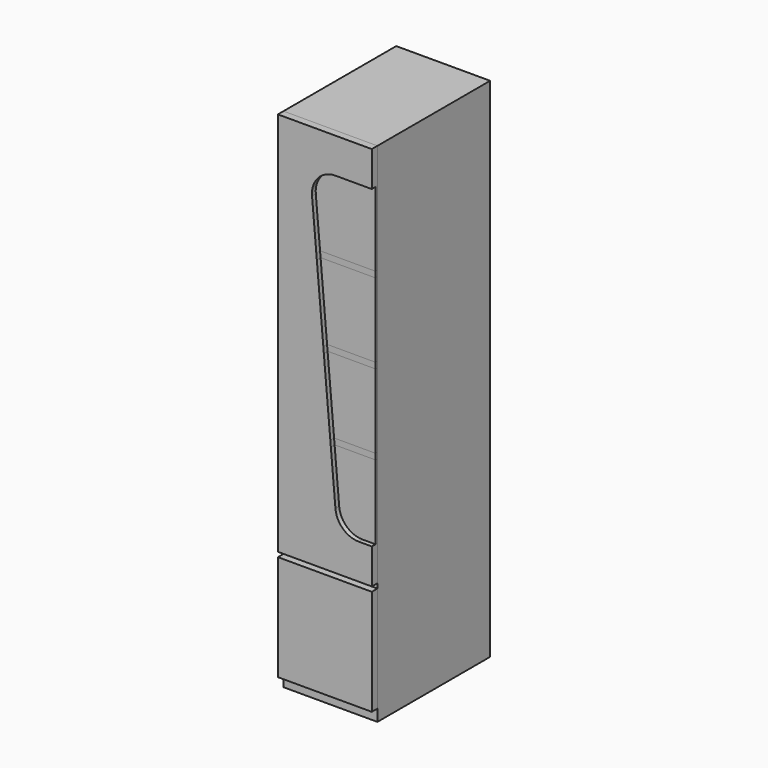
from build123d import *

# Parameters (mm, degrees)
F1_W     = 400
F1_H     = 600
F2_DEPTH = 2160
F3_W     = 400
F3_H     = 450
F4_DEPTH = 30
F5_DEPTH = 10
F6_DEPTH = 10


with BuildPart() as f2:
    # F1 (on Top) → F2 (new body)
    with BuildSketch(Plane.XY):
        with Locations((200, 300)):
            Rectangle(F1_W, F1_H)
    extrude(amount=F2_DEPTH)


with BuildPart() as f4:
    # F3 (on face) → F4 (new body)
    with BuildSketch(Plane.XZ):
        with Locations((200, 275)):
            Rectangle(F3_W, F3_H)
    extrude(amount=F4_DEPTH)


with BuildPart() as f4b:
    # F3 (on face) → F4, piece 2 (new body)
    with BuildSketch(Plane.XZ):
        with BuildLine():
            Line((0, 2160), (0, 520))
            Line((0, 520), (400, 520))
            Line((400, 520), (400, 670))
            Line((400, 670), (344.8679265265, 670))
            ThreePointArc((344.8679265265, 670), (277.3089057649, 696.272266319), (245.2484567173, 761.2844257252))
            Line((245.2484567173, 761.2844257252), (225.5665192847, 986.25))
            Line((225.5665192847, 986.25), (223.3793026965, 1011.25))
            Line((223.3793026965, 1011.25), (195.7110128564, 1327.5))
            Line((195.7110128564, 1327.5), (193.5237962683, 1352.5))
            Line((193.5237962683, 1352.5), (165.8555064282, 1668.75))
            Line((165.8555064282, 1668.75), (163.6682898401, 1693.75))
            Line((163.6682898401, 1693.75), (145.5113802978, 1901.2844257252))
            ThreePointArc((145.5113802978, 1901.2844257252), (171.4031164259, 1977.5590207616), (245.1308501069, 2010))
            Line((245.1308501069, 2010), (400, 2010))
            Line((400, 2010), (400, 2160))
            Line((400, 2160), (0, 2160))
        make_face()
    extrude(amount=F4_DEPTH)


with BuildPart() as f5:
    # F3 (on face) → F5 (new body)
    with BuildSketch(Plane.XZ):
        with BuildLine():
            Line((400, 1693.75), (400, 2010))
            Line((400, 2010), (245.1308501069, 2010))
            ThreePointArc((245.1308501069, 2010), (171.4031164259, 1977.5590207616), (145.5113802978, 1901.2844257252))
            Line((145.5113802978, 1901.2844257252), (163.6682898401, 1693.75))
            Line((163.6682898401, 1693.75), (400, 1693.75))
        make_face()
    extrude(amount=F5_DEPTH)


with BuildPart() as f5b:
    # F3 (on face) → F5, piece 2 (new body)
    with BuildSketch(Plane.XZ):
        Polygon((400, 1352.5), (400, 1668.75), (165.8555064282, 1668.75), (193.5237962683, 1352.5), align=None)
    extrude(amount=F5_DEPTH)


with BuildPart() as f5c:
    # F3 (on face) → F5, piece 3 (new body)
    with BuildSketch(Plane.XZ):
        Polygon((223.3793026965, 1011.25), (400, 1011.25), (400, 1327.5), (195.7110128564, 1327.5), align=None)
    extrude(amount=F5_DEPTH)


with BuildPart() as f5d:
    # F3 (on face) → F5, piece 4 (new body)
    with BuildSketch(Plane.XZ):
        with BuildLine():
            Line((344.8679265265, 670), (400, 670))
            Line((400, 670), (400, 986.25))
            Line((400, 986.25), (225.5665192847, 986.25))
            Line((225.5665192847, 986.25), (245.2484567173, 761.2844257252))
            ThreePointArc((245.2484567173, 761.2844257252), (277.3089057649, 696.272266319), (344.8679265265, 670))
        make_face()
    extrude(amount=F5_DEPTH)


with BuildPart() as f6:
    # F3 (on face) → F6 (new body)
    with BuildSketch(Plane.XZ):
        Polygon((400, 1668.75), (400, 1693.75), (163.6682898401, 1693.75), (165.8555064282, 1668.75), align=None)
    extrude(amount=F6_DEPTH)


with BuildPart() as f6b:
    # F3 (on face) → F6, piece 2 (new body)
    with BuildSketch(Plane.XZ):
        Polygon((195.7110128564, 1327.5), (400, 1327.5), (400, 1352.5), (193.5237962683, 1352.5), align=None)
    extrude(amount=F6_DEPTH)


with BuildPart() as f6c:
    # F3 (on face) → F6, piece 3 (new body)
    with BuildSketch(Plane.XZ):
        Polygon((225.5665192847, 986.25), (400, 986.25), (400, 1011.25), (223.3793026965, 1011.25), align=None)
    extrude(amount=F6_DEPTH)


solid = Compound([f2.part, f4.part, f4b.part, f5.part, f5b.part, f5c.part, f5d.part, f6.part, f6b.part, f6c.part])
